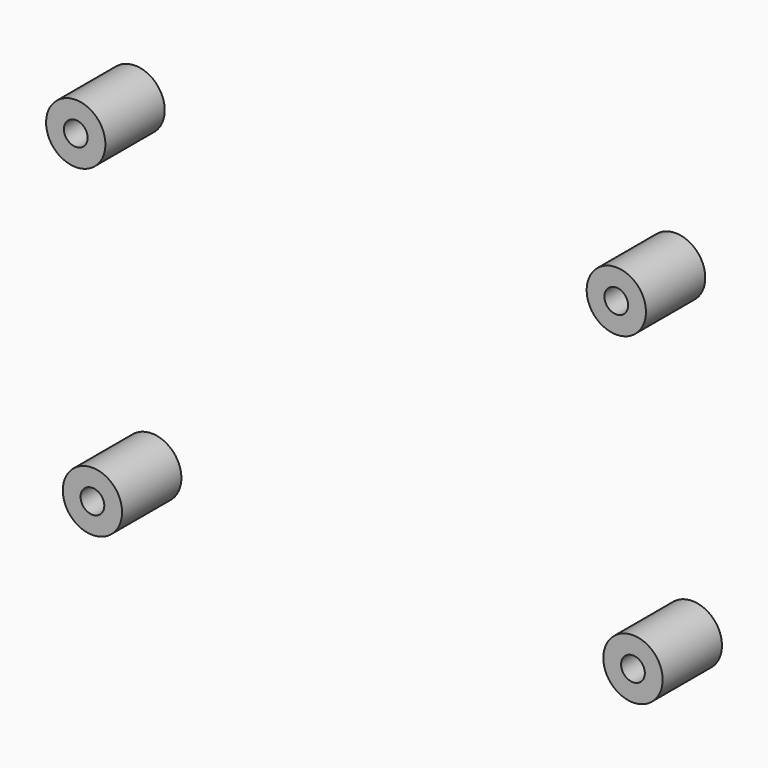
from build123d import *

# Parameters (mm, degrees)
CYLINDER123_R             = 1.6
CYLINDER123_DEPTH         = 25
CYLINDER122_R             = 1.6
CYLINDER122_DEPTH         = 25
CYLINDER124_R             = 1.6
CYLINDER124_DEPTH         = 25
CYLINDER125_R             = 1.6
CYLINDER125_DEPTH         = 25
FUSION111_PLACEMENT_ANGLE = 3
CYLINDER119_R             = 4
CYLINDER119_DEPTH         = 10
CYLINDER118_R             = 4
CYLINDER118_DEPTH         = 10
CYLINDER120_R             = 4
CYLINDER120_DEPTH         = 10
CYLINDER121_R             = 4
CYLINDER121_DEPTH         = 10
FUSION110_PLACEMENT_ANGLE = 3


with BuildPart() as cylinder123:
    # Cylinder123 → Cylinder123 (new body)
    with BuildSketch(Plane(origin=(76.5, 96, 46.5), x_dir=(1, 0, 0), z_dir=(0, -1, 0))):
        Circle(CYLINDER123_R)
    extrude(amount=CYLINDER123_DEPTH)


with BuildPart() as cylinder122:
    # Cylinder122 → Cylinder122 (new body)
    with BuildSketch(Plane(origin=(76.5, 96, 3.5), x_dir=(1, 0, 0), z_dir=(0, -1, 0))):
        Circle(CYLINDER122_R)
    extrude(amount=CYLINDER122_DEPTH)


with BuildPart() as cylinder124:
    # Cylinder124 → Cylinder124 (new body)
    with BuildSketch(Plane(origin=(3.5, 96, 46.5), x_dir=(1, 0, 0), z_dir=(0, -1, 0))):
        Circle(CYLINDER124_R)
    extrude(amount=CYLINDER124_DEPTH)


with BuildPart() as fusion111:
    # Cylinder125 → Cylinder125 (new body)
    with BuildSketch(Plane(origin=(3.5, 96, 3.5), x_dir=(1, 0, 0), z_dir=(0, -1, 0))):
        Circle(CYLINDER125_R)
    extrude(amount=CYLINDER125_DEPTH)

    # Fusion111: union Cylinder123, Cylinder122, Cylinder124
    add(cylinder123.part)
    add(cylinder122.part)
    add(cylinder124.part)


with BuildPart() as fusion111_1:
    # Fusion111 placement: moved
    add(fusion111.part.moved(Location((306, 25, -55))).rotate(Axis((306, 25, -55), (0, -1, 0)), FUSION111_PLACEMENT_ANGLE))


with BuildPart() as cylinder119:
    # Cylinder119 → Cylinder119 (new body)
    with BuildSketch(Plane(origin=(76.5, 96, 46.5), x_dir=(1, 0, 0), z_dir=(0, -1, 0))):
        Circle(CYLINDER119_R)
    extrude(amount=CYLINDER119_DEPTH)


with BuildPart() as cylinder118:
    # Cylinder118 → Cylinder118 (new body)
    with BuildSketch(Plane(origin=(76.5, 96, 3.5), x_dir=(1, 0, 0), z_dir=(0, -1, 0))):
        Circle(CYLINDER118_R)
    extrude(amount=CYLINDER118_DEPTH)


with BuildPart() as cylinder120:
    # Cylinder120 → Cylinder120 (new body)
    with BuildSketch(Plane(origin=(3.5, 96, 46.5), x_dir=(1, 0, 0), z_dir=(0, -1, 0))):
        Circle(CYLINDER120_R)
    extrude(amount=CYLINDER120_DEPTH)


with BuildPart() as cut069:
    # Cylinder121 → Cylinder121 (new body)
    with BuildSketch(Plane(origin=(3.5, 96, 3.5), x_dir=(1, 0, 0), z_dir=(0, -1, 0))):
        Circle(CYLINDER121_R)
    extrude(amount=CYLINDER121_DEPTH)

    # Fusion110: union Cylinder119, Cylinder118, Cylinder120
    add(cylinder119.part)
    add(cylinder118.part)
    add(cylinder120.part)


with BuildPart() as cut069_1:
    # Fusion110 placement: moved
    add(cut069.part.moved(Location((306, 15, -55))).rotate(Axis((306, 15, -55), (0, -1, 0)), FUSION110_PLACEMENT_ANGLE))

    # Cut069: cut Fusion111
    add(fusion111_1.part, mode=Mode.SUBTRACT)


with BuildPart() as cut069_2:
    # Cut069 placement: moved
    add(cut069_1.part.moved(Location((0, -145, 0))))


solid = cut069_2.part
